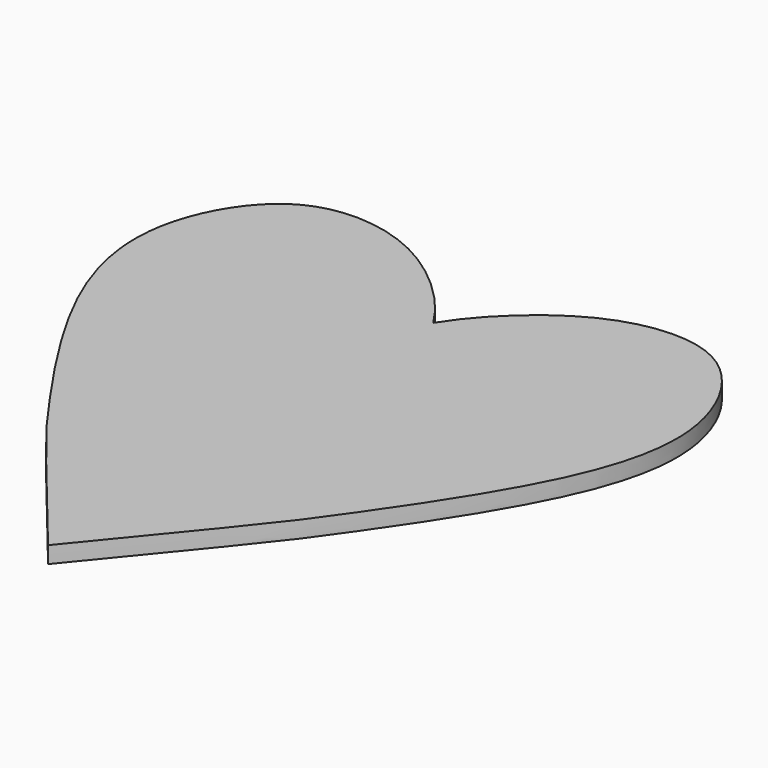
from build123d import *

# Parameters (mm, degrees)
F1_DEPTH = 2


with BuildPart() as f1:
    # F0 (on Top) → F1 (new body)
    with BuildSketch(Plane.XY):
        with BuildLine():
            add(Edge.make_bspline(
                [(0, 21.6020687316), (1.7047842032, 24.3579160308), (6.5779836645, 29.5967769582), (15.3019078268, 34.3084957655), (26.567493363, 33.8311916496), (34.3610701088, 20.3475047161), (30.1540339137, 3.8388566178), (14.5929557271, -18.3285237799), (14.6408766789, -18.2707002767), (0, -36.1526880815)],
                knots=[0, 0, 0, 0, 0.1175361933, 0.2326335528, 0.3482035745, 0.4820895989, 0.6350254368, 0.8030453225, 1, 1, 1, 1], degree=3))
            Line((0, 21.6020687316), (0, -36.1526880815))
        make_face()
        with BuildLine():
            Line((0, -36.1526880815), (0, 21.6020687316))
            add(Edge.make_bspline(
                [(0, 21.6020687316), (-1.7047842032, 24.3579160308), (-6.5779836645, 29.5967769582), (-15.3019078268, 34.3084957655), (-26.567493363, 33.8311916496), (-34.3610701088, 20.3475047161), (-30.1540339137, 3.8388566178), (-14.5929557271, -18.3285237799), (-14.6408766789, -18.2707002767), (0, -36.1526880815)],
                knots=[0, 0, 0, 0, 0.1175361933, 0.2326335528, 0.3482035745, 0.4820895989, 0.6350254368, 0.8030453225, 1, 1, 1, 1], degree=3))
        make_face()
    extrude(amount=F1_DEPTH)


solid = f1.part
